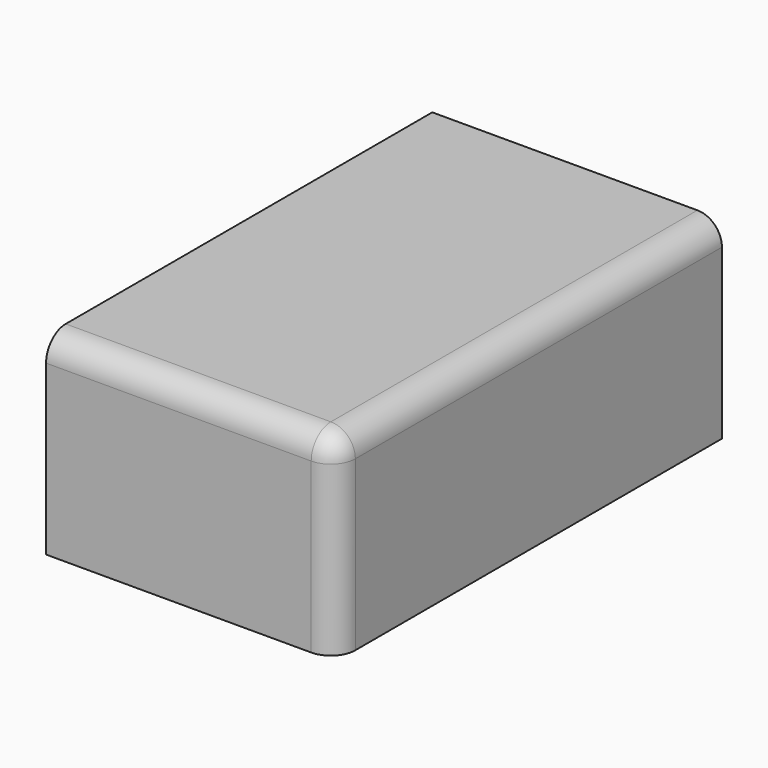
from build123d import *

# Parameters (mm, degrees)
F0_W     = 3000
F0_H     = 5000
F1_DEPTH = 2000
F2_R     = 254
F3_R     = 254


with BuildPart() as f1:
    # F0 (on Top) → F1 (new body)
    with BuildSketch(Plane.XY):
        Rectangle(F0_W, F0_H)
    extrude(amount=F1_DEPTH)

    # F2
    f2_edges = [f1.edges().sort_by_distance(p)[0] for p in [
        (0, -2500, 2000),
    ]]
    fillet(f2_edges, radius=F2_R)

    # F3
    f3_edges = [f1.edges().sort_by_distance(p)[0] for p in [
        (1500, -2500, 873),
        (1500, -2425.605122, 1925.605122),
        (1500, 127, 2000),
    ]]
    fillet(f3_edges, radius=F3_R)


solid = f1.part
